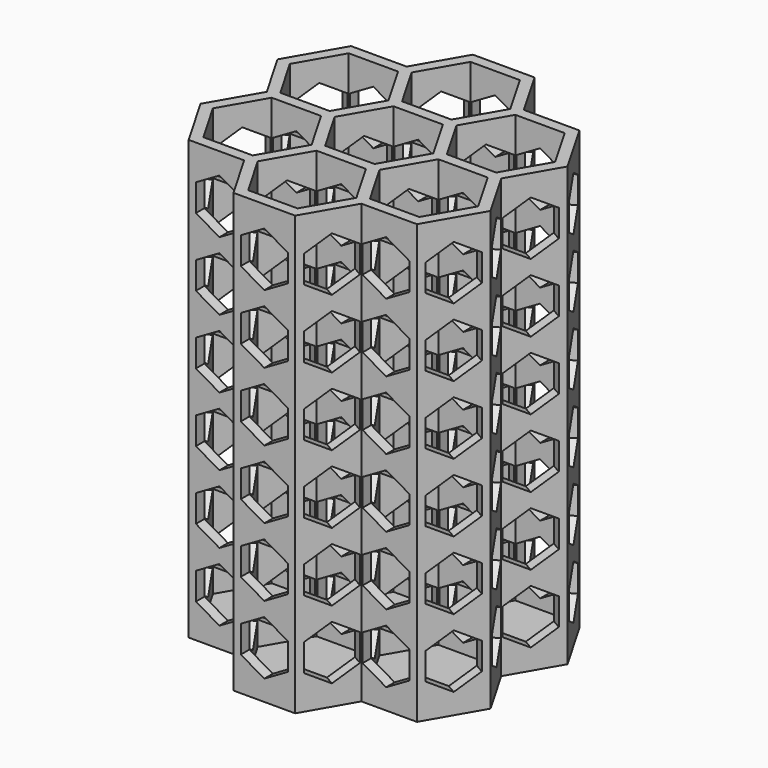
from build123d import *

# Parameters (mm, degrees)
F1_DEPTH  = 127
F3_DEPTH  = 3.175
F6_DEPTH  = 57.15
F11_DEPTH = 50.8
F12_DEPTH = 50.8


with BuildPart() as f1:
    # F0 (on Top) → F1 (new body)
    with BuildSketch(Plane.XY):
        Polygon((-33.912111, -30.1625), (-17.414327, -30.1625), (-9.165436, -44.45), (9.165436, -44.45), (17.414327, -30.1625), (33.912111, -30.1625), (43.077547, -14.2875), (34.828655, 0), (43.077547, 14.2875), (33.912111, 30.1625), (17.414327, 30.1625), (9.165436, 44.45), (-9.165436, 44.45), (-17.414327, 30.1625), (-33.912111, 30.1625), (-43.077547, 14.2875), (-34.828655, 0), (-43.077547, -14.2875), align=None)
        Polygon((32.995568, -28.575), (16.497784, -28.575), (8.248892, -42.8625), (-8.248892, -42.8625), (-16.497784, -28.575), (-32.995568, -28.575), (-41.24446, -14.2875), (-32.995568, 0), (-41.24446, 14.2875), (-32.995568, 28.575), (-16.497784, 28.575), (-8.248892, 42.8625), (8.248892, 42.8625), (16.497784, 28.575), (32.995568, 28.575), (41.24446, 14.2875), (32.995568, 0), (41.24446, -14.2875), align=None, mode=Mode.SUBTRACT)
        Polygon((-8.248892, -14.2875), (8.248892, -14.2875), (16.497784, 0), (8.248892, 14.2875), (-8.248892, 14.2875), (-16.497784, 0), align=None)
        Polygon((-14.664697, 0), (-7.332348, 12.7), (7.332348, 12.7), (14.664697, 0), (7.332348, -12.7), (-7.332348, -12.7), align=None, mode=Mode.SUBTRACT)
        Polygon((-16.497784, -28.575), (-8.248892, -14.2875), (-16.497784, 0), (-32.995568, 0), (-41.24446, -14.2875), (-32.995568, -28.575), align=None)
        Polygon((-39.411373, -14.2875), (-32.079024, -1.5875), (-17.414327, -1.5875), (-10.081979, -14.2875), (-17.414327, -26.9875), (-32.079024, -26.9875), align=None, mode=Mode.SUBTRACT)
        Polygon((16.497784, -28.575), (8.248892, -14.2875), (-8.248892, -14.2875), (-16.497784, -28.575), (-8.248892, -42.8625), (8.248892, -42.8625), align=None)
        Polygon((-7.332348, -41.275), (-14.664697, -28.575), (-7.332348, -15.875), (7.332348, -15.875), (14.664697, -28.575), (7.332348, -41.275), align=None, mode=Mode.SUBTRACT)
        Polygon((16.497784, 0), (8.248892, -14.2875), (16.497784, -28.575), (32.995568, -28.575), (41.24446, -14.2875), (32.995568, 0), align=None)
        Polygon((32.079024, -26.9875), (17.414327, -26.9875), (10.081979, -14.2875), (17.414327, -1.5875), (32.079024, -1.5875), (39.411373, -14.2875), align=None, mode=Mode.SUBTRACT)
        Polygon((8.248892, 14.2875), (16.497784, 0), (32.995568, 0), (41.24446, 14.2875), (32.995568, 28.575), (16.497784, 28.575), align=None)
        Polygon((39.411373, 14.2875), (32.079024, 1.5875), (17.414327, 1.5875), (10.081979, 14.2875), (17.414327, 26.9875), (32.079024, 26.9875), align=None, mode=Mode.SUBTRACT)
        Polygon((-8.248892, 14.2875), (8.248892, 14.2875), (16.497784, 28.575), (8.248892, 42.8625), (-8.248892, 42.8625), (-16.497784, 28.575), align=None)
        Polygon((7.332348, 15.875), (-7.332348, 15.875), (-14.664697, 28.575), (-7.332348, 41.275), (7.332348, 41.275), (14.664697, 28.575), align=None, mode=Mode.SUBTRACT)
        Polygon((-32.995568, 0), (-16.497784, 0), (-8.248892, 14.2875), (-16.497784, 28.575), (-32.995568, 28.575), (-41.24446, 14.2875), align=None)
        Polygon((-32.079024, 26.9875), (-17.414327, 26.9875), (-10.081979, 14.2875), (-17.414327, 1.5875), (-32.079024, 1.5875), (-39.411373, 14.2875), align=None, mode=Mode.SUBTRACT)
    extrude(amount=F1_DEPTH)

    # F2 (on face) → F3 (join)
    with BuildSketch(Plane(origin=(0, 0, 0), x_dir=(1, 0, 0), z_dir=(0, 0, -1))):
        Polygon((-17.414327, 30.1625), (-33.912111, 30.1625), (-43.077547, 14.2875), (-34.828655, 0), (-43.077547, -14.2875), (-33.912111, -30.1625), (-17.414327, -30.1625), (-9.165436, -44.45), (9.165436, -44.45), (17.414327, -30.1625), (33.912111, -30.1625), (43.077547, -14.2875), (34.828655, 0), (43.077547, 14.2875), (33.912111, 30.1625), (17.414327, 30.1625), (9.165436, 44.45), (-9.165436, 44.45), align=None)
    extrude(amount=F3_DEPTH)

    # F5 (on face) → F6 (cut, symmetric)
    with BuildSketch(Plane(origin=(0, 0, 0), x_dir=(0.5, -0.866025, 0), z_dir=(-0.866025, -0.5, 0))):
        Polygon((-6.985, 116.617208), (-6.985, 108.551625), (0, 104.518833), (6.985, 108.551625), (6.985, 116.617208), (0, 120.65), align=None)
        Polygon((6.985, 88.231625), (6.985, 96.297208), (0, 100.33), (-6.985, 96.297208), (-6.985, 88.231625), (0, 84.198833), align=None)
        Polygon((6.985, 67.911625), (6.985, 75.977208), (0, 80.01), (-6.985, 75.977208), (-6.985, 67.911625), (0, 63.878833), align=None)
        Polygon((6.985, 47.591625), (6.985, 55.657208), (0, 59.69), (-6.985, 55.657208), (-6.985, 47.591625), (0, 43.558833), align=None)
        Polygon((6.985, 27.271625), (6.985, 35.337208), (0, 39.37), (-6.985, 35.337208), (-6.985, 27.271625), (0, 23.238833), align=None)
        Polygon((6.985, 6.951625), (6.985, 15.017208), (0, 19.05), (-6.985, 15.017208), (-6.985, 6.951625), (0, 2.918833), align=None)
        Polygon((24.765, 100.33), (17.78, 96.297208), (17.78, 88.231625), (24.765, 84.198833), (31.75, 88.231625), (31.75, 96.297208), align=None)
        Polygon((31.75, 47.591625), (31.75, 55.657208), (24.765, 59.69), (17.78, 55.657208), (17.78, 47.591625), (24.765, 43.558833), align=None)
        Polygon((24.765, 104.518833), (31.75, 108.551625), (31.75, 116.617208), (24.765, 120.65), (17.78, 116.617208), (17.78, 108.551625), align=None)
        Polygon((17.78, 15.017208), (17.78, 6.951625), (24.765, 2.918833), (31.75, 6.951625), (31.75, 15.017208), (24.765, 19.05), align=None)
        Polygon((31.75, 35.337208), (24.765, 39.37), (17.78, 35.337208), (17.78, 27.271625), (24.765, 23.238833), (31.75, 27.271625), align=None)
        Polygon((24.765, 63.878833), (31.75, 67.911625), (31.75, 75.977208), (24.765, 80.01), (17.78, 75.977208), (17.78, 67.911625), align=None)
        Polygon((-31.75, 108.551625), (-24.765, 104.518833), (-17.78, 108.551625), (-17.78, 116.617208), (-24.765, 120.65), (-31.75, 116.617208), align=None)
        Polygon((-24.765, 84.198833), (-17.78, 88.231625), (-17.78, 96.297208), (-24.765, 100.33), (-31.75, 96.297208), (-31.75, 88.231625), align=None)
        Polygon((-24.765, 2.918833), (-17.78, 6.951625), (-17.78, 15.017208), (-24.765, 19.05), (-31.75, 15.017208), (-31.75, 6.951625), align=None)
        Polygon((-31.75, 35.337208), (-31.75, 27.271625), (-24.765, 23.238833), (-17.78, 27.271625), (-17.78, 35.337208), (-24.765, 39.37), align=None)
        Polygon((-17.78, 75.977208), (-24.765, 80.01), (-31.75, 75.977208), (-31.75, 67.911625), (-24.765, 63.878833), (-17.78, 67.911625), align=None)
        Polygon((-31.75, 55.657208), (-31.75, 47.591625), (-24.765, 43.558833), (-17.78, 47.591625), (-17.78, 55.657208), (-24.765, 59.69), align=None)
    extrude(amount=F6_DEPTH, both=True, mode=Mode.SUBTRACT)

    # F8 (on face) → F11 (cut, symmetric)
    with BuildSketch(Plane.XZ):
        Polygon((-6.985, 116.617208), (-6.985, 108.551625), (0, 104.518833), (6.985, 108.551625), (6.985, 116.617208), (0, 120.65), align=None)
        Polygon((6.985, 88.231625), (6.985, 96.297208), (0, 100.33), (-6.985, 96.297208), (-6.985, 88.231625), (0, 84.198833), align=None)
        Polygon((6.985, 67.911625), (6.985, 75.977208), (0, 80.01), (-6.985, 75.977208), (-6.985, 67.911625), (0, 63.878833), align=None)
        Polygon((6.985, 47.591625), (6.985, 55.657208), (0, 59.69), (-6.985, 55.657208), (-6.985, 47.591625), (0, 43.558833), align=None)
        Polygon((6.985, 27.271625), (6.985, 35.337208), (0, 39.37), (-6.985, 35.337208), (-6.985, 27.271625), (0, 23.238833), align=None)
        Polygon((6.985, 6.951625), (6.985, 15.017208), (0, 19.05), (-6.985, 15.017208), (-6.985, 6.951625), (0, 2.918833), align=None)
        Polygon((24.765, 100.33), (17.78, 96.297208), (17.78, 88.231625), (24.765, 84.198833), (31.75, 88.231625), (31.75, 96.297208), align=None)
        Polygon((31.75, 47.591625), (31.75, 55.657208), (24.765, 59.69), (17.78, 55.657208), (17.78, 47.591625), (24.765, 43.558833), align=None)
        Polygon((24.765, 104.518833), (31.75, 108.551625), (31.75, 116.617208), (24.765, 120.65), (17.78, 116.617208), (17.78, 108.551625), align=None)
        Polygon((17.78, 15.017208), (17.78, 6.951625), (24.765, 2.918833), (31.75, 6.951625), (31.75, 15.017208), (24.765, 19.05), align=None)
        Polygon((31.75, 35.337208), (24.765, 39.37), (17.78, 35.337208), (17.78, 27.271625), (24.765, 23.238833), (31.75, 27.271625), align=None)
        Polygon((24.765, 63.878833), (31.75, 67.911625), (31.75, 75.977208), (24.765, 80.01), (17.78, 75.977208), (17.78, 67.911625), align=None)
        Polygon((-31.75, 108.551625), (-24.765, 104.518833), (-17.78, 108.551625), (-17.78, 116.617208), (-24.765, 120.65), (-31.75, 116.617208), align=None)
        Polygon((-24.765, 84.198833), (-17.78, 88.231625), (-17.78, 96.297208), (-24.765, 100.33), (-31.75, 96.297208), (-31.75, 88.231625), align=None)
        Polygon((-24.765, 2.918833), (-17.78, 6.951625), (-17.78, 15.017208), (-24.765, 19.05), (-31.75, 15.017208), (-31.75, 6.951625), align=None)
        Polygon((-31.75, 35.337208), (-31.75, 27.271625), (-24.765, 23.238833), (-17.78, 27.271625), (-17.78, 35.337208), (-24.765, 39.37), align=None)
        Polygon((-17.78, 75.977208), (-24.765, 80.01), (-31.75, 75.977208), (-31.75, 67.911625), (-24.765, 63.878833), (-17.78, 67.911625), align=None)
        Polygon((-31.75, 55.657208), (-31.75, 47.591625), (-24.765, 43.558833), (-17.78, 47.591625), (-17.78, 55.657208), (-24.765, 59.69), align=None)
    extrude(amount=F11_DEPTH, both=True, mode=Mode.SUBTRACT)

    # F10 (on face) → F12 (cut, symmetric)
    with BuildSketch(Plane(origin=(0, 0, 0), x_dir=(0.5, 0.866025, 0), z_dir=(0.866025, -0.5, 0))):
        Polygon((-6.985, 116.617208), (-6.985, 108.551625), (0, 104.518833), (6.985, 108.551625), (6.985, 116.617208), (0, 120.65), align=None)
        Polygon((6.985, 88.231625), (6.985, 96.297208), (0, 100.33), (-6.985, 96.297208), (-6.985, 88.231625), (0, 84.198833), align=None)
        Polygon((6.985, 67.911625), (6.985, 75.977208), (0, 80.01), (-6.985, 75.977208), (-6.985, 67.911625), (0, 63.878833), align=None)
        Polygon((6.985, 47.591625), (6.985, 55.657208), (0, 59.69), (-6.985, 55.657208), (-6.985, 47.591625), (0, 43.558833), align=None)
        Polygon((6.985, 27.271625), (6.985, 35.337208), (0, 39.37), (-6.985, 35.337208), (-6.985, 27.271625), (0, 23.238833), align=None)
        Polygon((6.985, 6.951625), (6.985, 15.017208), (0, 19.05), (-6.985, 15.017208), (-6.985, 6.951625), (0, 2.918833), align=None)
        Polygon((24.765, 100.33), (17.78, 96.297208), (17.78, 88.231625), (24.765, 84.198833), (31.75, 88.231625), (31.75, 96.297208), align=None)
        Polygon((31.75, 47.591625), (31.75, 55.657208), (24.765, 59.69), (17.78, 55.657208), (17.78, 47.591625), (24.765, 43.558833), align=None)
        Polygon((24.765, 104.518833), (31.75, 108.551625), (31.75, 116.617208), (24.765, 120.65), (17.78, 116.617208), (17.78, 108.551625), align=None)
        Polygon((17.78, 15.017208), (17.78, 6.951625), (24.765, 2.918833), (31.75, 6.951625), (31.75, 15.017208), (24.765, 19.05), align=None)
        Polygon((31.75, 35.337208), (24.765, 39.37), (17.78, 35.337208), (17.78, 27.271625), (24.765, 23.238833), (31.75, 27.271625), align=None)
        Polygon((24.765, 63.878833), (31.75, 67.911625), (31.75, 75.977208), (24.765, 80.01), (17.78, 75.977208), (17.78, 67.911625), align=None)
        Polygon((-31.75, 108.551625), (-24.765, 104.518833), (-17.78, 108.551625), (-17.78, 116.617208), (-24.765, 120.65), (-31.75, 116.617208), align=None)
        Polygon((-24.765, 84.198833), (-17.78, 88.231625), (-17.78, 96.297208), (-24.765, 100.33), (-31.75, 96.297208), (-31.75, 88.231625), align=None)
        Polygon((-24.765, 2.918833), (-17.78, 6.951625), (-17.78, 15.017208), (-24.765, 19.05), (-31.75, 15.017208), (-31.75, 6.951625), align=None)
        Polygon((-31.75, 35.337208), (-31.75, 27.271625), (-24.765, 23.238833), (-17.78, 27.271625), (-17.78, 35.337208), (-24.765, 39.37), align=None)
        Polygon((-17.78, 75.977208), (-24.765, 80.01), (-31.75, 75.977208), (-31.75, 67.911625), (-24.765, 63.878833), (-17.78, 67.911625), align=None)
        Polygon((-31.75, 55.657208), (-31.75, 47.591625), (-24.765, 43.558833), (-17.78, 47.591625), (-17.78, 55.657208), (-24.765, 59.69), align=None)
    extrude(amount=F12_DEPTH, both=True, mode=Mode.SUBTRACT)


solid = f1.part
